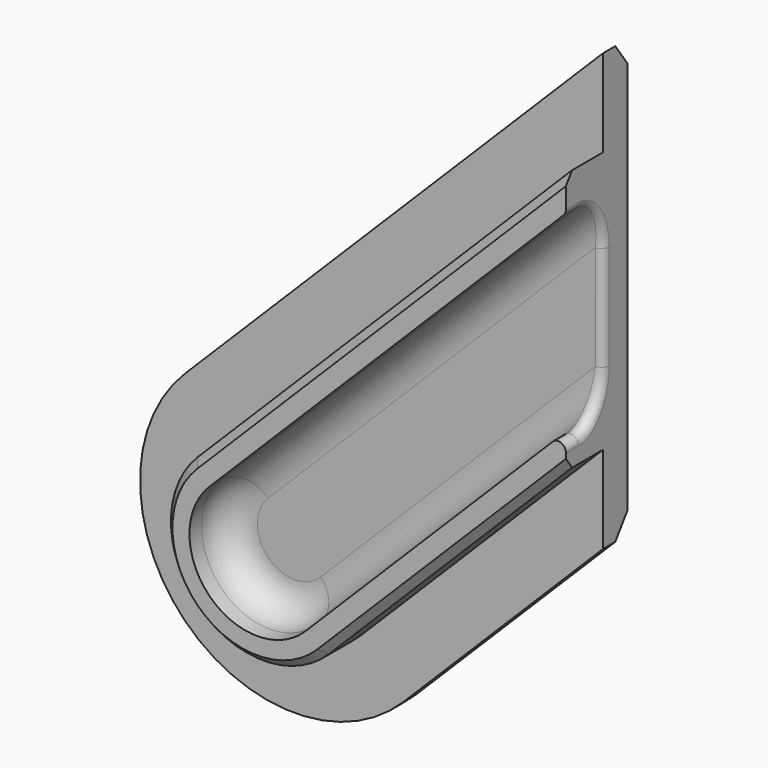
from build123d import *

# Parameters (mm, degrees)
PAD020_DEPTH    = 3
PAD021_DEPTH    = 2
CHAMFER028_SIZE = 1
POCKET031_DEPTH = 3
FILLET021_R     = 2
CHAMFER030_SIZE = 0.5
FILLET022_R     = 0.5


with BuildPart() as part:
    # Sketch055 → Pad020 (new body)
    with BuildSketch(Plane.XZ):
        with BuildLine():
            ThreePointArc((15.757359, 4.242641), (15.757359, -4.242641), (24.242641, -4.242641))
            Line((40, 11.514719), (24.242641, -4.242641))
            Line((40, 28.485281), (40, 11.514719))
            Line((15.757359, 4.242641), (40, 28.485281))
        make_face()
    extrude(amount=-PAD020_DEPTH)

    # Sketch056 (on Face6 of Pad020) → Pad021 (join)
    with BuildSketch(Plane(origin=(0, 3, 0), x_dir=(-1, 0, 0), z_dir=(0, 1, 0))):
        with BuildLine():
            Line((-40, 5.857864), (-40, 34.142136))
            Line((-40, 34.142136), (-12.928932, 7.071068))
            ThreePointArc((-27.071068, -7.071068), (-12.928932, -7.071068), (-12.928932, 7.071068))
            Line((-40, 5.857864), (-27.071068, -7.071068))
        make_face()
    extrude(amount=PAD021_DEPTH)

    # Chamfer028
    chamfer028_edges = [part.edges().sort_by_distance(p)[0] for p in [
        (33.535534, 5, -0.606602),
    ]]
    chamfer(chamfer028_edges, length=CHAMFER028_SIZE)

    # Sketch057 (on Face10 of Chamfer028) → Pocket031 (cut)
    with BuildSketch(Plane.XZ):
        with BuildLine():
            Line((40, 26.22254), (16.88873, 3.11127))
            ThreePointArc((16.88873, 3.11127), (16.88873, -3.11127), (23.11127, -3.11127))
            Line((40, 13.77746), (23.11127, -3.11127))
            Line((40, 26.22254), (40, 13.77746))
        make_face()
    extrude(amount=-POCKET031_DEPTH, mode=Mode.SUBTRACT)

    # Fillet021
    fillet021_edges = [part.edges().sort_by_distance(p)[0] for p in [
        (28.444365, 3, 14.666905),
    ]]
    fillet(fillet021_edges, radius=FILLET021_R)

    # Chamfer030
    chamfer030_edges = [part.edges().sort_by_distance(p)[0] for p in [
        (27.87868, 0, 16.363961),
    ]]
    chamfer(chamfer030_edges, length=CHAMFER030_SIZE)

    # Fillet022
    fillet022_edges = [part.edges().sort_by_distance(p)[0] for p in [
        (40, 0.5, 26.22254),
    ]]
    fillet(fillet022_edges, radius=FILLET022_R)


solid = part.part
